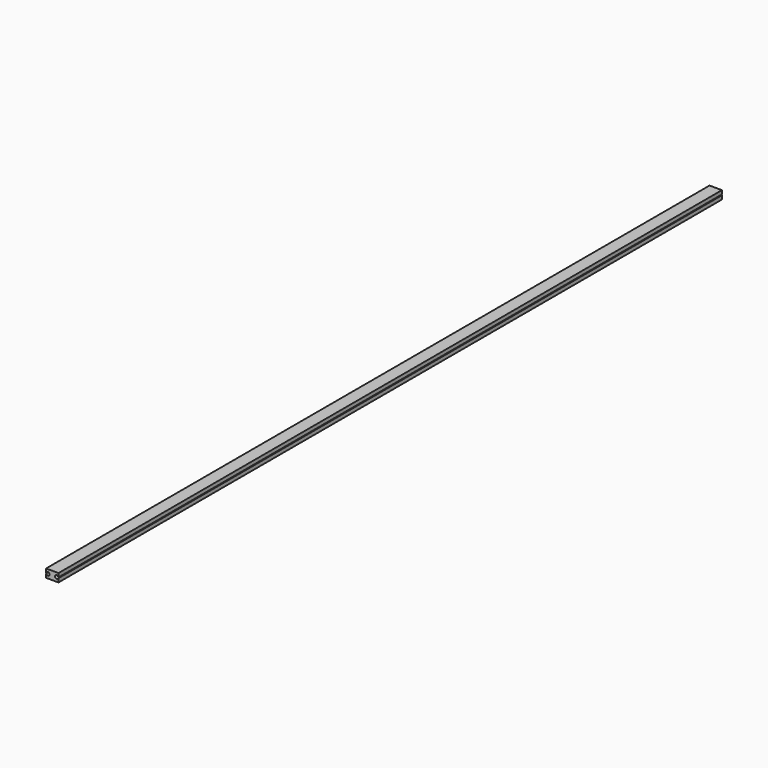
from build123d import *

# Parameters (mm, degrees)
F1_DEPTH = 1000


with BuildPart() as f1:
    # F0 (on Front) → F1 (new body, symmetric)
    with BuildSketch(Plane.XZ):
        with BuildLine():
            Line((15, 1), (15, 10))
            Line((15, 10), (-15, 10))
            Line((-15, 10), (-15, 1))
            ThreePointArc((-15, 1), (-14.823983, 0.801443), (-14.605752, 0.952381))
            ThreePointArc((-14.605752, 0.952381), (-6.720784, 0), (-14.605752, -0.952381))
            ThreePointArc((-14.605752, -0.952381), (-14.823983, -0.801443), (-15, -1))
            Line((-15, -1), (-15, -10))
            Line((-15, -10), (15, -10))
            Line((15, -10), (15, -1))
            ThreePointArc((15, -1), (14.823983, -0.801443), (14.605752, -0.952381))
            ThreePointArc((14.605752, -0.952381), (6.720784, 0), (14.605752, 0.952381))
            ThreePointArc((14.605752, 0.952381), (14.823983, 0.801443), (15, 1))
        make_face()
    extrude(amount=F1_DEPTH, both=True)


solid = f1.part
